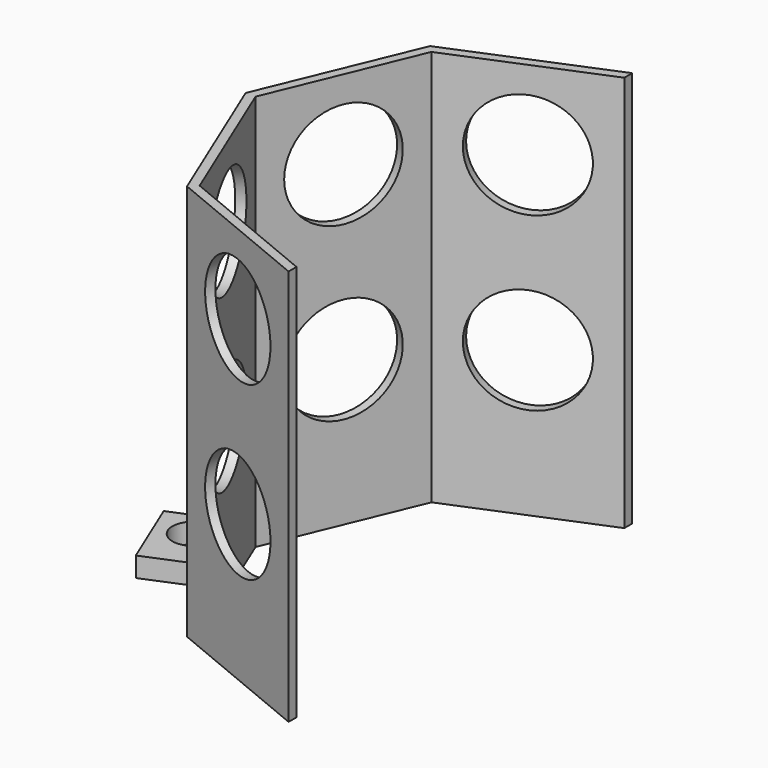
from build123d import *

# Parameters (mm, degrees)
BOX_W           = 60
BOX_H           = 70
BOX_DEPTH       = 60
PRISM001_DEPTH  = 60
PRISM_DEPTH     = 60
SKETCH_R        = 8
POCKET_DEPTH    = 2
SKETCH001_R     = 8
POCKET001_DEPTH = 2
SKETCH002_R     = 8
POCKET002_DEPTH = 2
SKETCH003_R     = 8
POCKET003_DEPTH = 2
SKETCH004_W     = 16.007478
SKETCH004_H     = 3
PAD_DEPTH       = 10
SKETCH005_W     = 11.852036
SKETCH005_H     = 3
PAD001_DEPTH    = 10
SKETCH006_R     = 3.1
POCKET004_DEPTH = 5
SKETCH007_R     = 3.1
POCKET005_DEPTH = 5


with BuildPart() as cubo:
    # Box → Box (new body)
    with BuildSketch(Plane(origin=(0, -35, 0), x_dir=(1, 0, 0), z_dir=(0, 0, 1))):
        with Locations((30, 35)):
            Rectangle(BOX_W, BOX_H)
    extrude(amount=BOX_DEPTH)


with BuildPart() as prisma001:
    # Prism001 → Prism001 (new body)
    with BuildSketch(Plane.XY):
        Polygon((31, 0), (21.9203102168, 21.9203102168), (0, 31), (-21.9203102168, 21.9203102168), (-31, 0), (-21.9203102168, -21.9203102168), (0, -31), (21.9203102168, -21.9203102168), align=None)
    extrude(amount=PRISM001_DEPTH)


with BuildPart() as pocket005:
    # Prism → Prism (new body)
    with BuildSketch(Plane.XY):
        Polygon((32.5, 0), (22.9809703886, 22.9809703886), (0, 32.5), (-22.9809703886, 22.9809703886), (-32.5, 0), (-22.9809703886, -22.9809703886), (0, -32.5), (22.9809703886, -22.9809703886), align=None)
    extrude(amount=PRISM_DEPTH)

    # Cut: cut Prisma001
    add(prisma001.part, mode=Mode.SUBTRACT)

    # Cut001: cut Cubo
    add(cubo.part, mode=Mode.SUBTRACT)

    # Sketch → Pocket (cut)
    with BuildSketch(Plane(origin=(-11.4904851943, -27.7404851943, 0), x_dir=(0.9238795325, -0.3826834324, 0), z_dir=(-0.3826834324, -0.9238795325, 0))):
        with Locations((0, 48)):
            Circle(SKETCH_R)
        with Locations((0, 22)):
            Circle(SKETCH_R)
    extrude(amount=-POCKET_DEPTH, mode=Mode.SUBTRACT)

    # Sketch001 → Pocket001 (cut)
    with BuildSketch(Plane(origin=(-27.7404851943, -11.4904851943, 0), x_dir=(0.3826834324, -0.9238795325, 0), z_dir=(-0.9238795325, -0.3826834324, 0))):
        with Locations((0, 48)):
            Circle(SKETCH001_R)
        with Locations((0, 22)):
            Circle(SKETCH001_R)
    extrude(amount=-POCKET001_DEPTH, mode=Mode.SUBTRACT)

    # Sketch002 → Pocket002 (cut)
    with BuildSketch(Plane(origin=(-27.7404851943, 11.4904851943, 0), x_dir=(-0.3826834324, -0.9238795325, 0), z_dir=(-0.9238795325, 0.3826834324, 0))):
        with Locations((0, 48)):
            Circle(SKETCH002_R)
        with Locations((0, 22)):
            Circle(SKETCH002_R)
    extrude(amount=-POCKET002_DEPTH, mode=Mode.SUBTRACT)

    # Sketch003 → Pocket003 (cut)
    with BuildSketch(Plane(origin=(-11.4904851943, 27.7404851943, 0), x_dir=(-0.9238795325, -0.3826834324, 0), z_dir=(-0.3826834324, 0.9238795325, 0))):
        with Locations((6e-06, 48)):
            Circle(SKETCH003_R)
        with Locations((0, 22)):
            Circle(SKETCH003_R)
    extrude(amount=-POCKET003_DEPTH, mode=Mode.SUBTRACT)

    # Sketch004 → Pad (new body)
    with BuildSketch(Plane(origin=(-27.7404851943, 11.4904851943, 0), x_dir=(-0.3826834324, -0.9238795325, 0), z_dir=(-0.9238795325, 0.3826834324, 0))):
        with Locations((4.178784, 1.5)):
            Rectangle(SKETCH004_W, SKETCH004_H)
    extrude(amount=PAD_DEPTH)

    # Sketch005 → Pad001 (new body)
    with BuildSketch(Plane(origin=(-27.7404851943, -11.4904851943, 0), x_dir=(0.3826834324, -0.9238795325, 0), z_dir=(-0.9238795325, -0.3826834324, 0))):
        with Locations((-6.240987, 1.5)):
            Rectangle(SKETCH005_W, SKETCH005_H)
    extrude(amount=PAD001_DEPTH)

    # Sketch006 → Pocket004 (cut)
    with BuildSketch(Plane.XY.offset(3)):
        with Locations((-34.283413, 8.452291)):
            Circle(SKETCH006_R)
    extrude(amount=-POCKET004_DEPTH, mode=Mode.SUBTRACT)

    # Sketch007 → Pocket005 (cut)
    with BuildSketch(Plane.XY.offset(3)):
        with Locations((-35.295174, -6.471159)):
            Circle(SKETCH007_R)
    extrude(amount=-POCKET005_DEPTH, mode=Mode.SUBTRACT)


solid = pocket005.part
